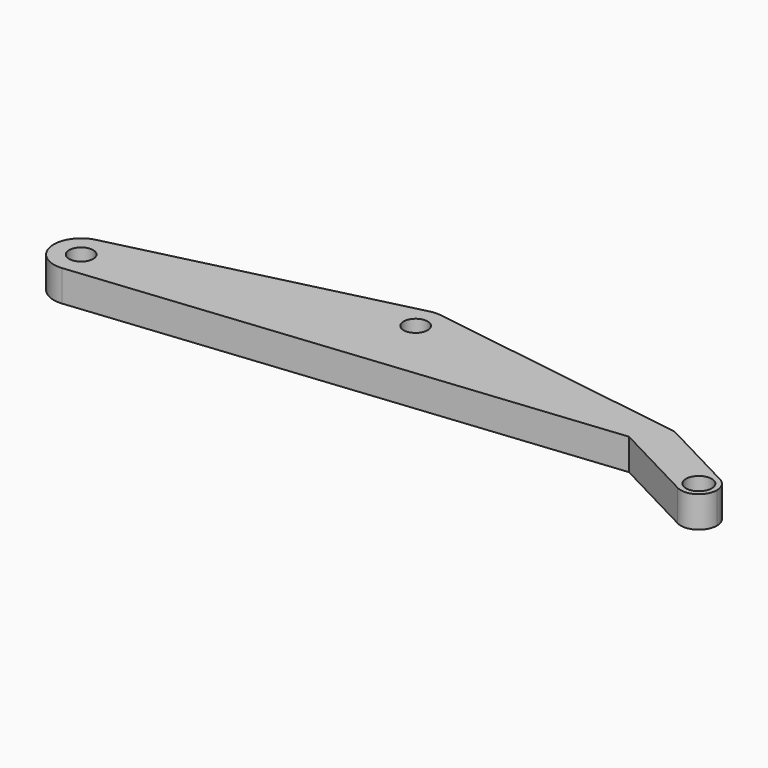
from build123d import *

# Parameters (mm, degrees)
F0_R     = 1
F0_R_2   = 1.075
F1_DEPTH = 1.3


with BuildPart() as f1:
    # F0 (on Top) → F1 (new body)
    with BuildSketch(Plane.XY):
        with BuildLine():
            ThreePointArc((-1.724839, 5.20118), (-2.567642, 1.308568), (1.014279, 3.05))
            ThreePointArc((1.014279, 3.05), (0.477178, 4.49572), (-0.873565, 5.240085))
            ThreePointArc((-0.873565, 5.240085), (-1.301091, 5.26197), (-1.724839, 5.20118))
        make_face()
        with Locations((-1.2, 3.05)):
            Circle(F0_R, mode=Mode.SUBTRACT)
        with BuildLine():
            ThreePointArc((-0.873565, 5.240085), (0.477178, 4.49572), (1.014279, 3.05))
            ThreePointArc((1.014279, 3.05), (-2.567642, 1.308568), (-1.724839, 5.20118))
            Line((-1.724839, 5.20118), (-24.990567, -0.475129))
            ThreePointArc((-24.990567, -0.475129), (-23.041374, -0.897155), (-22.169366, -2.690773))
            ThreePointArc((-22.169366, -2.690773), (-22.75681, -4.218646), (-24.216514, -4.959423))
            Line((-24.216514, -4.959423), (19.374011, -0.473151))
            Line((19.374011, -0.473151), (26.347487, -4.119261))
            ThreePointArc((26.347487, -4.119261), (25.713232, -2.094979), (27.737514, -1.460723))
            Line((27.737514, -1.460723), (21.219947, 1.947013))
            Line((21.219947, 1.947013), (-0.873565, 5.240085))
        make_face()
        with BuildLine():
            ThreePointArc((-22.169366, -2.690773), (-23.041374, -0.897155), (-24.990567, -0.475129))
            ThreePointArc((-24.990567, -0.475129), (-26.697398, -3.078706), (-24.216514, -4.959423))
            ThreePointArc((-24.216514, -4.959423), (-22.75681, -4.218646), (-22.169366, -2.690773))
        make_face()
        with Locations((-24.45, -2.690773)):
            Circle(F0_R, mode=Mode.SUBTRACT)
        with BuildLine():
            ThreePointArc((28.542501, -2.789992), (28.325567, -2.012985), (27.737514, -1.460723))
            ThreePointArc((27.737514, -1.460723), (25.713232, -2.094979), (26.347487, -4.119261))
            ThreePointArc((26.347487, -4.119261), (27.819508, -4.073059), (28.542501, -2.789992))
        make_face()
        with Locations((27.042501, -2.789992)):
            Circle(F0_R_2, mode=Mode.SUBTRACT)
    extrude(amount=F1_DEPTH)

    # F2: F1 across plane


with BuildPart() as f1_1:
    add(f1.part)
    add(f1.part.mirror(Plane.XY))


solid = f1_1.part
